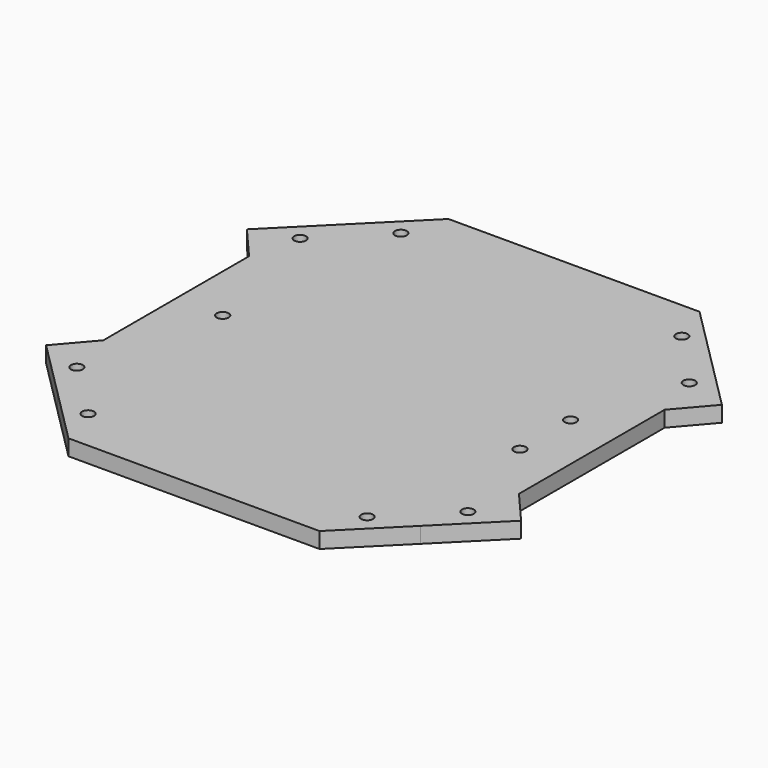
from build123d import *

# Parameters (mm, degrees)
F5_DEPTH = 4
F7_D     = 3
F8_D     = 3


with BuildPart() as f5:
    # F4 (on Top) → F5 (new body)
    with BuildSketch(Plane.XY):
        Polygon((31.7157287525, 60), (-31.7157287525, 60), (-45.8578643763, 45.8578643763), (-60, 31.7157287525), (-53.459262274, 24.1143308548), (-52.5, 22.9995125363), (-52.5, -22.9995125363), (-60, -31.7157287525), (-45.8578643763, -45.8578643763), (-31.7157287525, -60), (31.7157287525, -60), (45.8578643763, -45.8578643763), (60, -31.7157287525), (52.5, -22.9995125363), (52.5, 22.9995125363), (60, 31.7157287525), (45.8578643763, 45.8578643763), align=None)
    extrude(amount=F5_DEPTH)

    # F7 (through all)
    with Locations(Plane.XY.offset(4)):
        with Locations((-40.75, 0), (40.75, -8), (40.75, 8)):
            Hole(F7_D / 2)

    # F8 (through all)
    with Locations(Plane(origin=(0, 0, 0), x_dir=(1, 0, 0), z_dir=(0, 0, -1))):
        with Locations((-49.3933982822, -35.2512626585), (-35.2512626585, -49.3933982822), (35.5175525155, -49.6500174851), (49.1271084251, -34.9946434556), (49.3933982822, 35.2512626585), (35.2512626585, 49.3933982822), (-35.2512626585, 49.3933982822), (-49.3933982822, 35.2512626585)):
            Hole(F8_D / 2)


solid = f5.part
